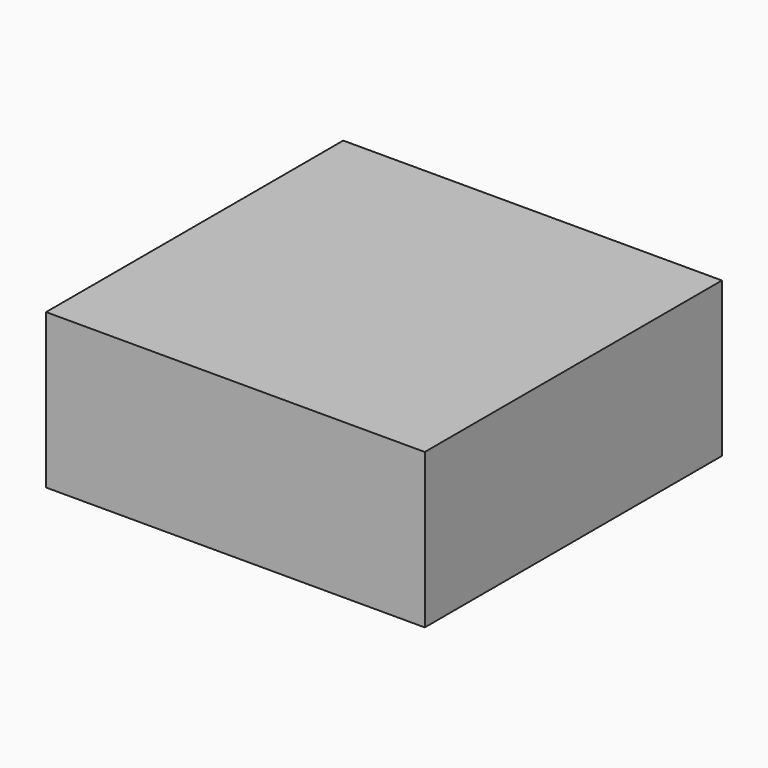
from build123d import *

# Parameters (mm, degrees)
F0_W     = 228.1314730644
F0_H     = 223.7609028816
F0_W_2   = 64.8332834244
F0_H_2   = 4.016213119
F1_DEPTH = 93.0553


with BuildPart() as f1:
    # F0 (on Top) → F1 (new body)
    with BuildSketch(Plane.XY):
        with Locations((-114.0657365322, -15.2809917927)):
            Rectangle(F0_W, F0_H)
        with Locations((-100.1861393452, -111.6703040898)):
            Rectangle(F0_W_2, F0_H_2, mode=Mode.SUBTRACT)
        with Locations((-100.1861393452, -111.6703040898)):
            Rectangle(F0_W_2, F0_H_2)
    extrude(amount=F1_DEPTH)


solid = f1.part
